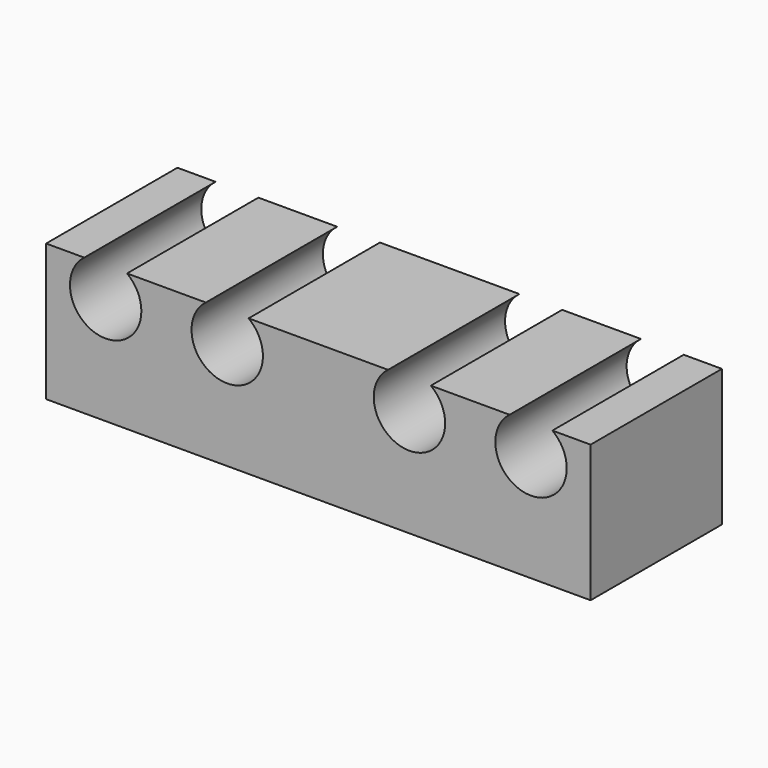
from build123d import *

# Parameters (mm, degrees)
F1_DEPTH = 25


with BuildPart() as f1:
    # F0 (on Front) → F1 (new body)
    with BuildSketch(Plane.XZ):
        with BuildLine():
            Line((-41.461691, -10.433468), (41.461691, -10.433468))
            Line((41.461691, -10.433468), (41.461691, 10.433468))
            Line((41.461691, 10.433468), (35.64515, 10.433468))
            ThreePointArc((35.64515, 10.433468), (37.250754, 8.513963), (37.826613, 6.078629))
            ThreePointArc((37.826613, 6.078629), (29.953782, 1.216991), (29.133081, 10.433468))
            Line((29.133081, 10.433468), (17.131031, 10.433468))
            ThreePointArc((17.131031, 10.433468), (18.736635, 8.513963), (19.312494, 6.078629))
            ThreePointArc((19.312494, 6.078629), (11.439663, 1.216991), (10.618963, 10.433468))
            Line((10.618963, 10.433468), (-10.618963, 10.433468))
            ThreePointArc((-10.618963, 10.433468), (-9.013358, 8.513963), (-8.437499, 6.078629))
            ThreePointArc((-8.437499, 6.078629), (-16.310331, 1.216991), (-17.131031, 10.433468))
            Line((-17.131031, 10.433468), (-29.133081, 10.433468))
            ThreePointArc((-29.133081, 10.433468), (-27.527477, 8.513963), (-26.951618, 6.078629))
            ThreePointArc((-26.951618, 6.078629), (-34.824449, 1.216991), (-35.64515, 10.433468))
            Line((-35.64515, 10.433468), (-41.461691, 10.433468))
            Line((-41.461691, 10.433468), (-41.461691, -10.433468))
        make_face()
    extrude(amount=F1_DEPTH)


solid = f1.part
